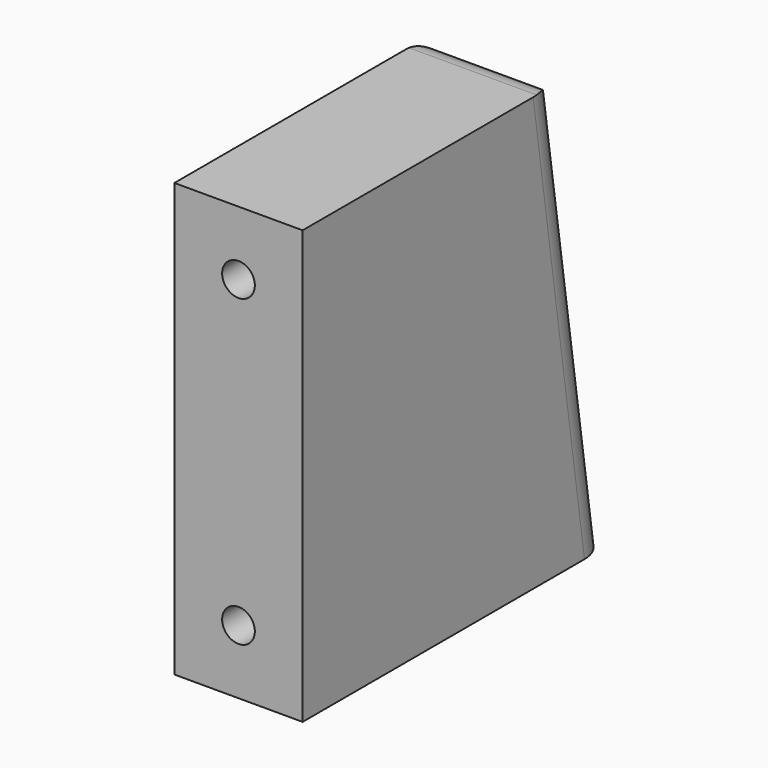
from build123d import *

# Parameters (mm, degrees)
F1_DEPTH = 20
F3_D     = 5.1
F3_DEPTH = 25
F3_TIP   = 1.5321945785
F5_DEPTH = 12
F6_R     = 5


with BuildPart() as f1:
    # F0 (on Right) → F1 (new body)
    with BuildSketch(Plane.YZ):
        Polygon((-60, 0), (0, 0), (-10, 67.5), (-60, 67.5), align=None)
    extrude(amount=F1_DEPTH)

    # F3
    with Locations(Plane.XZ.offset(60)):
        with Locations((10, 57.5), (10, 10)):
            Hole(F3_D / 2, depth=F3_DEPTH)
            with Locations((0, 0, -(F3_DEPTH + F3_TIP / 2))):  # 118° drill point
                Cone(0, F3_D / 2, F3_TIP, mode=Mode.SUBTRACT)

    # F4 (on face) → F5 (cut)
    with BuildSketch(Plane(origin=(0, 0, 0), x_dir=(1, 0, 0), z_dir=(0, 0, -1))):
        with BuildLine():
            ThreePointArc((12.55, 45), (11.803122292, 46.803122292), (10, 47.55))
            Line((10, 47.55), (10, 45))
            Line((10, 45), (10, 42.45))
            ThreePointArc((10, 42.45), (11.803122292, 43.196877708), (12.55, 45))
        make_face()
        with BuildLine():
            ThreePointArc((12.55, 5), (11.803122292, 6.803122292), (10, 7.55))
            ThreePointArc((10, 7.55), (8.196877708, 3.196877708), (12.55, 5))
        make_face()
        with BuildLine():
            Line((10, 45), (10, 47.55))
            ThreePointArc((10, 47.55), (7.45, 45), (10, 42.45))
            Line((10, 42.45), (10, 45))
        make_face()
    extrude(amount=-F5_DEPTH, mode=Mode.SUBTRACT)

    # F6
    f6_edges = [f1.edges().sort_by_distance(p)[0] for p in [
        (10, -10, 67.5),
        (20, -5, 33.75),
        (0, -5, 33.75),
    ]]
    fillet(f6_edges, radius=F6_R)


solid = f1.part
